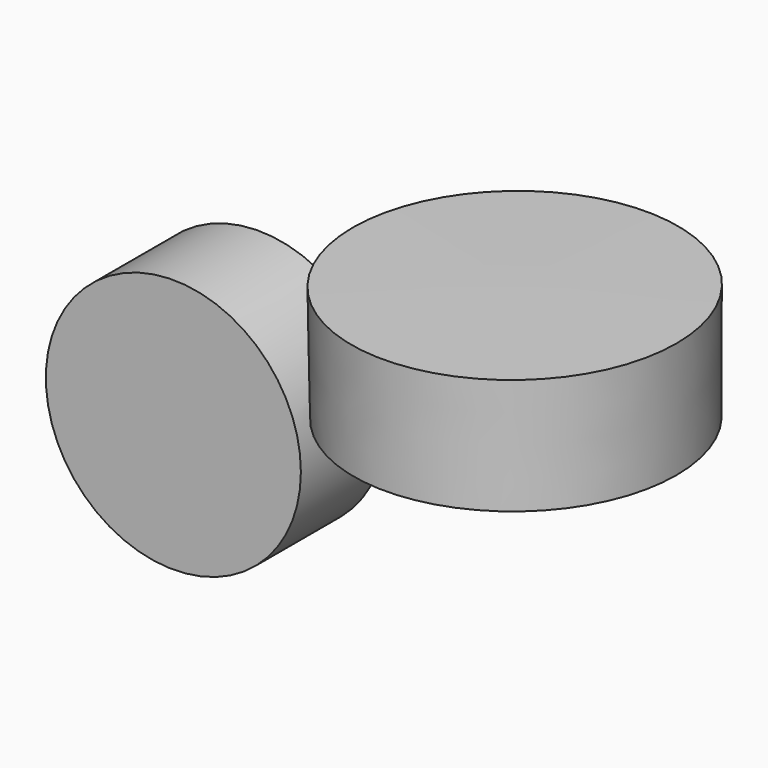
from build123d import *

# Parameters (mm, degrees)
F0_R     = 30.3887590566
F1_DEPTH = 25.4


with BuildPart() as f1:
    # F0 (on Front) → F1 (new body)
    with BuildSketch(Plane.XZ):
        with Locations((-41.4496473968, 17.9204754531)):
            Circle(F0_R)
    extrude(amount=F1_DEPTH)

    # F2 (on Front) → F3 (revolve)
    with BuildSketch(Plane.XZ):
        Polygon((58.1389442086, 57.0445582271), (19.5620451123, 57.0445582271), (19.835639745, 29.4114630669), (39.2608866096, 43.6384007335), (58.1389442086, 29.4114630669), align=None)
    revolve(axis=Axis((19.6988424286, 0, 43.228010647), (-0.0099004915, 0, 0.9999509889)))


solid = f1.part
